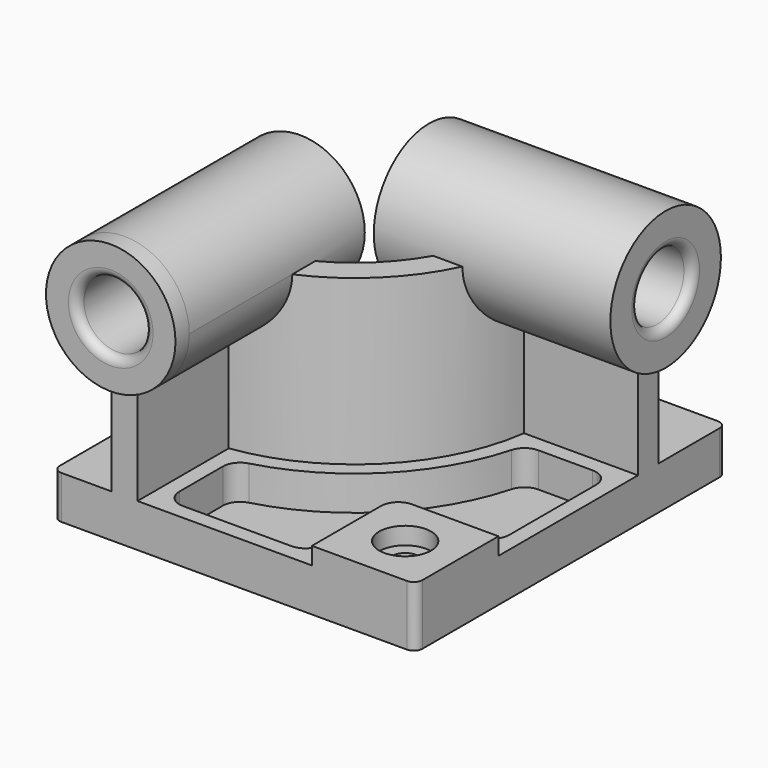
from build123d import *

# Parameters (mm, degrees)
F0_W            = 210
F0_H            = 225
F1_DEPTH        = 25
F3_DEPTH        = 95
F4_R            = 37.5
F5_DEPTH        = 10
F5_DEPTH_BACK   = 127
F7_DEPTH        = 10
F7_DEPTH_BACK   = 127
F8_W            = 60
F8_H            = 60
F9_DEPTH        = 10
F10_R           = 10
F12_DEPTH       = 20
F14_D           = 15
F14_CBORE_D     = 30
F14_CBORE_DEPTH = 10
F15_R           = 10
F16_R           = 19.5
F17_DEPTH       = 235.001
F18_R           = 19.5
F19_DEPTH       = 220.001
F20_R           = 5


with BuildPart() as f1:
    # F0 (on Top) → F1 (new body)
    with BuildSketch(Plane.XY):
        Rectangle(F0_W, F0_H)
    extrude(amount=F1_DEPTH)

    # F2 (on face) → F3 (join)
    with BuildSketch(Plane.XY.offset(25)):
        with BuildLine():
            Line((-71, -32.5), (-71, -112.5))
            Line((-71, -112.5), (-56, -112.5))
            Line((-56, -112.5), (-56, -46.4818166789))
            ThreePointArc((-56, -46.4818166789), (7.4888527117, -14.9888527117), (38.9818166789, 48.5))
            Line((38.9818166789, 48.5), (105, 48.5))
            Line((105, 48.5), (105, 63.5))
            Line((105, 63.5), (25, 63.5))
            ThreePointArc((25, 63.5), (-3.1177490061, -4.3822509939), (-71, -32.5))
        make_face()
    extrude(amount=F3_DEPTH)

    # F4 (on face) → F5 (join, two sides)
    with BuildSketch(Plane.XZ.offset(112.5)) as f5_sk:
        with Locations((-63.5, 120)):
            Circle(F4_R)
    extrude(amount=F5_DEPTH)
    extrude(f5_sk.sketch, amount=-F5_DEPTH_BACK)

    # F6 (on face) → F7 (join, two sides)
    with BuildSketch(Plane.YZ.offset(105)) as f7_sk:
        with BuildLine():
            Line((48.5, 120), (48.5, 80.7094158862))
            ThreePointArc((48.5, 80.7094158862), (56, 80), (63.5, 80.7094158862))
            Line((63.5, 80.7094158862), (63.5, 120))
            Line((63.5, 120), (48.5, 120))
        make_face()
        with BuildLine():
            ThreePointArc((63.5, 80.7094158862), (86.8220700148, 94.504902432), (96, 120))
            ThreePointArc((96, 120), (30.504902432, 150.8220700148), (48.5, 80.7094158862))
            Line((48.5, 80.7094158862), (48.5, 120))
            Line((48.5, 120), (63.5, 120))
            Line((63.5, 120), (63.5, 80.7094158862))
        make_face()
    extrude(amount=F7_DEPTH)
    extrude(f7_sk.sketch, amount=-F7_DEPTH_BACK)

    # F8 (on face) → F9 (join)
    with BuildSketch(Plane.XY.offset(25)):
        with Locations((75, -82.5)):
            Rectangle(F8_W, F8_H)
    extrude(amount=F9_DEPTH)

    # F10
    f10_edges = [f1.edges().sort_by_distance(p)[0] for p in [
        (45, -52.5, 30),
    ]]
    fillet(f10_edges, radius=F10_R)

    # F11 (on face) → F12 (cut)
    with BuildSketch(Plane.XY.offset(25)):
        with BuildLine():
            ThreePointArc((46.5755076536, 39.5), (13.8528137424, -21.3528137424), (-47, -54.0755076536))
            Line((-47, -54.0755076536), (-47, -103.5))
            Line((-47, -103.5), (36, -103.5))
            Line((36, -103.5), (36, -62.5))
            ThreePointArc((36, -62.5), (41.5649711575, -49.0649711575), (55, -43.5))
            Line((55, -43.5), (96, -43.5))
            Line((96, -43.5), (96, 39.5))
            Line((96, 39.5), (46.5755076536, 39.5))
        make_face()
    extrude(amount=-F12_DEPTH, mode=Mode.SUBTRACT)

    # F14 (through all)
    with Locations(Plane.XY.offset(35)):
        with Locations((75, -82.5)):
            CounterBoreHole(F14_D / 2, F14_CBORE_D / 2, F14_CBORE_DEPTH)

    # F15
    f15_edges = [f1.edges().sort_by_distance(p)[0] for p in [
        (-47, -103.5, 15),
        (96, 39.5, 15),
        (-47, -54.075508, 15),
        (46.575508, 39.5, 15),
        (96, -43.5, 15),
        (36, -103.5, 15),
    ]]
    fillet(f15_edges, radius=F15_R)

    # F16 (on face) → F17 (cut, through all)
    with BuildSketch(Plane.XZ.offset(122.5)):
        with Locations((-63.5, 120)):
            Circle(F16_R)
    extrude(amount=-F17_DEPTH, mode=Mode.SUBTRACT)

    # F18 (on face) → F19 (cut, through all)
    with BuildSketch(Plane.YZ.offset(115)):
        with Locations((56, 120)):
            Circle(F18_R)
    extrude(amount=-F19_DEPTH, mode=Mode.SUBTRACT)

    # F20
    f20_edges = [f1.edges().sort_by_distance(p)[0] for p in [
        (-105, -112.5, 12.5),
        (105, -112.5, 17.5),
        (105, 112.5, 12.5),
        (-105, 112.5, 12.5),
        (-83, 14.5, 120),
        (-22, 36.5, 120),
        (115, 36.5, 120),
        (-83, -122.5, 120),
    ]]
    fillet(f20_edges, radius=F20_R)


solid = f1.part
